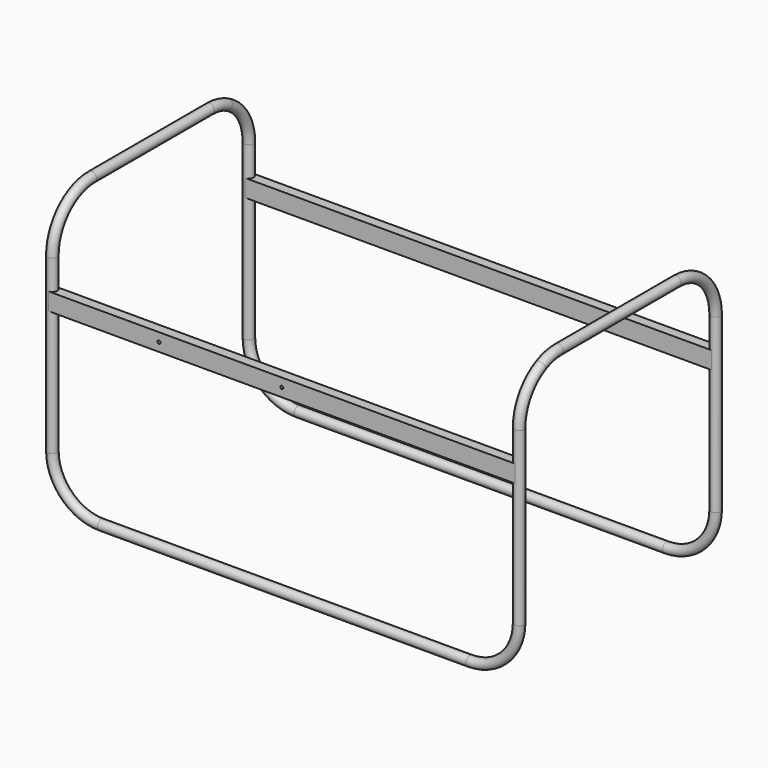
from build123d import *

# Parameters (mm, degrees)
F4_R      = 10
F4_R_2    = 9
F0_W      = 950
F0_H      = 35.3993549943
F6_DEPTH  = 10
F11_ANGLE = 180
F13_D     = 6.1


with BuildPart() as f5:
    # F5: sweep along a path in F2, F0
    with BuildLine(Plane(origin=(700, 0, 0), x_dir=(0, -1, 0), z_dir=(-1, 0, 0))) as f5_path:
        ThreePointArc((-500, 216.4213562373), (-470.7106781187, 287.132034356), (-400, 316.4213562373))
        Line((-400, 316.4213562373), (-194.412201643, 316.4213562373))
        Line((-194.412201643, 316.4213562373), (-100, 316.4213562373))
        ThreePointArc((-100, 316.4213562373), (-77.0125679766, 313.7433885269), (-55.2563279673, 305.8529156167))
        ThreePointArc((-55.2563279673, 305.8529156167), (-14.9283619434, 268.9838561623), (0, 216.4213562373))
    with BuildLine(Plane.XZ) as f5_path_2:
        Line((700, 216.4213562373), (700, -133.5786437627))
        ThreePointArc((700, -133.5786437627), (670.7106781187, -204.2893218813), (600, -233.5786437627))
        Line((600, -233.5786437627), (-150, -233.5786437627))
        ThreePointArc((-150, -233.5786437627), (-220.7106781187, -204.2893218813), (-250, -133.5786437627))
        Line((-250, -133.5786437627), (-250, 216.4213562373))
    # F4 (on line) → F5 (sweep)
    with BuildSketch(Plane(origin=(0, 0, 216.4213562373), x_dir=(1, 0, 0), z_dir=(0, 0, -1))):
        with Locations((700, -500)):
            Circle(F4_R)
        with Locations((700, -500)):
            Circle(F4_R_2, mode=Mode.SUBTRACT)
    sweep(path=f5_path.line + f5_path_2.line)

    # F0 (on Front) → F6 (join, symmetric)
    with BuildSketch(Plane.XZ):
        with Locations((225, 138.3286677301)):
            Rectangle(F0_W, F0_H)
    extrude(amount=F6_DEPTH, both=True)


with BuildPart() as f11_1:
    # F11: copy of F5
    add(f5.part.rotate(Axis((225, 250, 184.2115175905), (0, 0, -1)), F11_ANGLE))


with BuildPart() as f5_1:
    add(f5.part)

    # F13 (through all)
    with Locations(Plane.XZ.offset(10)):
        with Locations((225, 138.3286677301), (-25, 138.3286677301)):
            Hole(F13_D / 2)


solid = Compound([f11_1.part, f5_1.part])
